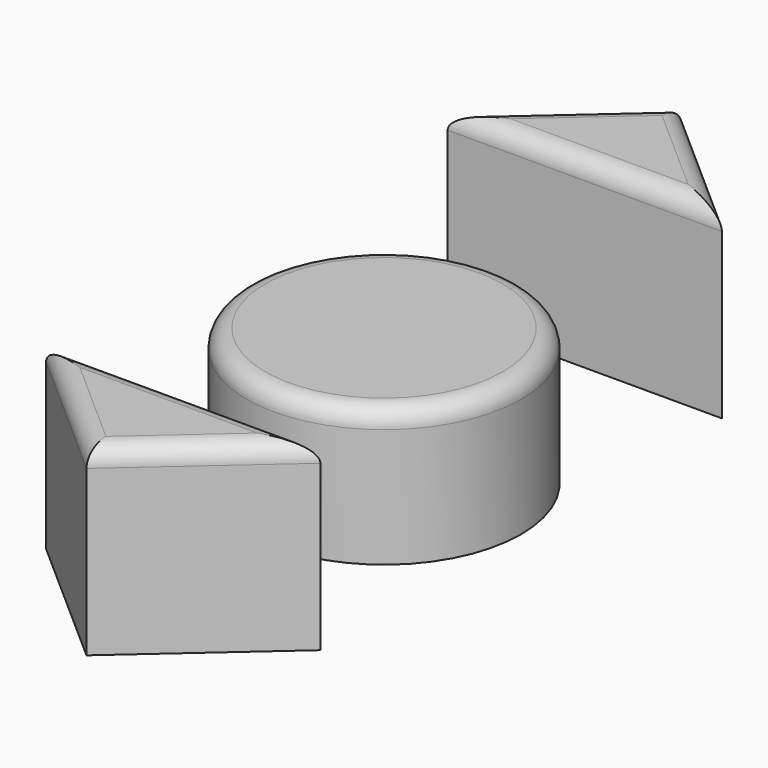
from build123d import *

# Parameters (mm, degrees)
F1_DEPTH = 25.4
F0_R     = 19.05
F2_DEPTH = 19.05
F3_R     = 2.54
F3_2_R   = 2.54


with BuildPart() as f1:
    # F0 (on Top) → F1 (new body)
    with BuildSketch(Plane.XY):
        Polygon((0, 51.660344), (-19.05, 34.859824), (19.05, 34.859824), align=None)
        Polygon((0, 51.660344), (-19.05, 34.859824), (19.05, 34.859824), align=None)
        Polygon((19.05, -34.859824), (0, -34.859824), (-19.05, -34.859824), (0, -51.660344), align=None)
        Polygon((19.05, -34.859824), (0, -34.859824), (-19.05, -34.859824), (0, -51.660344), align=None)
    extrude(amount=F1_DEPTH)

    # F3#2
    f3_2_edges = [f1.edges().sort_by_distance(p)[0] for p in [
        (0, 34.859824, 25.4),
        (9.525, 43.260084, 25.4),
        (-9.525, 43.260084, 25.4),
        (-9.525, -43.260084, 25.4),
        (9.525, -43.260084, 25.4),
        (0, -34.859824, 25.4),
    ]]
    fillet(f3_2_edges, radius=F3_2_R)


with BuildPart() as f2:
    # F0 (on Top) → F2 (new body)
    with BuildSketch(Plane.XY):
        Circle(F0_R)
    extrude(amount=F2_DEPTH)

    # F3
    f3_edges = [f2.edges().sort_by_distance(p)[0] for p in [
        (-19.05, 0, 19.05),
    ]]
    fillet(f3_edges, radius=F3_R)


solid = Compound([f1.part, f2.part])
